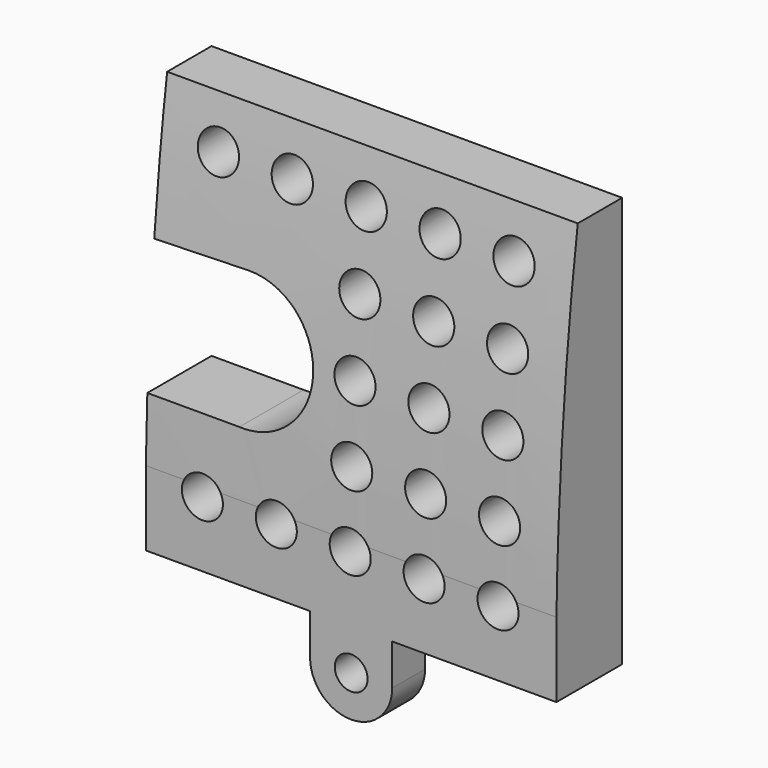
from build123d import *

# Parameters (mm, degrees)
F0_W     = 50
F0_H     = 50
F1_DEPTH = 10
F3_DEPTH = 25
F5_DEPTH = 51.8
F6_R     = 2
F7_DEPTH = 5
F8_R     = 2.5
F9_DEPTH = 25


with BuildPart() as f1:
    # F0 (on Front) → F1 (new body)
    with BuildSketch(Plane.XZ):
        Rectangle(F0_W, F0_H)
    extrude(amount=F1_DEPTH)

    # F2 (on face) → F3 (cut)
    with BuildSketch(Plane.XZ.offset(10)):
        with BuildLine():
            Line((-32.9653375415, -8.2073664128), (-13.7824165981, -8.2073664128))
            ThreePointArc((-13.7824165981, -8.2073664128), (-5.1652969727, -0.0889075743), (-13.6047293798, 8.2141102624))
            Line((-13.6047293798, 8.2141102624), (-32.9653375415, 7.6890131459))
            Line((-32.9653375415, 7.6890131459), (-32.9653375415, -8.2073664128))
        make_face()
    extrude(amount=-F3_DEPTH, mode=Mode.SUBTRACT)

    # F4 (on face) → F5 (cut)
    with BuildSketch(Plane(origin=(-25, 0, 0), x_dir=(0, -1, 0), z_dir=(-1, 0, 0))):
        with BuildLine():
            add(Edge.make_bspline(
                [(10, -25), (10.3218462318, -6.8958816119), (8.6038708687, 12.3836183921), (6.758638192, 25)],
                knots=[0, 0, 0, 0, 50.1049541101, 50.1049541101, 50.1049541101, 50.1049541101], degree=3))
            Line((10, -25), (14.1395693645, 25))
            Line((14.1395693645, 25), (6.758638192, 25))
        make_face()
    extrude(amount=-F5_DEPTH, mode=Mode.SUBTRACT)

    # F6 (on face) → F7 (join)
    with BuildSketch(Plane.XZ.offset(10)):
        with BuildLine():
            Line((-5, -25), (-5, -30))
            ThreePointArc((-5, -30), (-3.5355339059, -33.5355339059), (0, -35))
            ThreePointArc((0, -35), (3.5355339059, -33.5355339059), (5, -30))
            Line((5, -30), (5, -25))
            Line((5, -25), (0, -25))
            Line((0, -25), (-5, -25))
        make_face()
        with Locations((0, -30)):
            Circle(F6_R, mode=Mode.SUBTRACT)
    extrude(amount=-F7_DEPTH)

    # F8 (on face) → F9 (cut)
    with BuildSketch(Plane(origin=(0, 0, 0), x_dir=(-1, 0, 0), z_dir=(0, 1, 0))):
        with Locations((-17.8852397949, 18.9740266651)):
            Circle(F8_R)
        with Locations((-17.8852397949, 9.9740266651)):
            Circle(F8_R)
        with Locations((-17.8852397949, 0.9740266651)):
            Circle(F8_R)
        with Locations((-17.8852397949, -8.0259733349)):
            Circle(F8_R)
        with Locations((-17.8852397949, -17.0259733349)):
            Circle(F8_R)
        with Locations((-8.8852397949, 18.9740266651)):
            Circle(F8_R)
        with Locations((-8.8852397949, 9.9740266651)):
            Circle(F8_R)
        with Locations((-8.8852397949, 0.9740266651)):
            Circle(F8_R)
        with Locations((-8.8852397949, -8.0259733349)):
            Circle(F8_R)
        with Locations((-8.8852397949, -17.0259733349)):
            Circle(F8_R)
        with Locations((0.1147602051, 18.9740266651)):
            Circle(F8_R)
        with Locations((0.1147602051, 9.9740266651)):
            Circle(F8_R)
        with Locations((0.1147602051, 0.9740266651)):
            Circle(F8_R)
        with Locations((0.1147602051, -8.0259733349)):
            Circle(F8_R)
        with Locations((0.1147602051, -17.0259733349)):
            Circle(F8_R)
        with Locations((9.1147602051, 18.9740266651)):
            Circle(F8_R)
        with Locations((9.1147602051, -17.0259733349)):
            Circle(F8_R)
        with Locations((18.1147602051, 18.9740266651)):
            Circle(F8_R)
        with Locations((18.1147602051, -17.0259733349)):
            Circle(F8_R)
    extrude(amount=-F9_DEPTH, mode=Mode.SUBTRACT)


solid = f1.part
